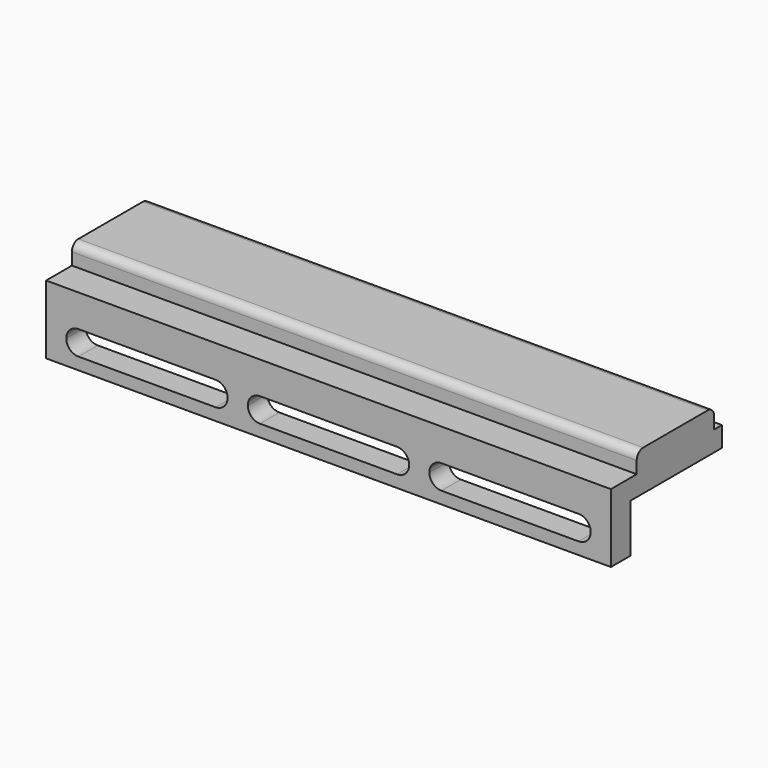
from build123d import *

# Parameters (mm, degrees)
F1_DEPTH = 70
F2_R     = 2
F4_DEPTH = 25


with BuildPart() as f1:
    # F0 (on Right) → F1 (new body, symmetric)
    with BuildSketch(Plane.YZ):
        Polygon((-20, 5), (-20, -12), (-14, -12), (-14, 0), (14.4, 0), (14.4, 5), (12, 5), (12, 10), (-12, 10), (-12, 5), align=None)
    extrude(amount=F1_DEPTH, both=True)

    # F2
    f2_edges = [f1.edges().sort_by_distance(p)[0] for p in [
        (0, -12, 10),
        (0, 12, 10),
    ]]
    fillet(f2_edges, radius=F2_R)

    # F3 (on face) → F4 (cut)
    with BuildSketch(Plane.XZ.offset(20)):
        with BuildLine():
            Line((-28, -3), (-62, -3))
            ThreePointArc((-62, -3), (-64.12132, -3.87868), (-65, -6))
            ThreePointArc((-65, -6), (-64.12132, -8.12132), (-62, -9))
            Line((-62, -9), (-28, -9))
            ThreePointArc((-28, -9), (-25.87868, -8.12132), (-25, -6))
            ThreePointArc((-25, -6), (-25.87868, -3.87868), (-28, -3))
        make_face()
        with BuildLine():
            Line((17, -3), (-17, -3))
            ThreePointArc((-17, -3), (-19.12132, -3.87868), (-20, -6))
            ThreePointArc((-20, -6), (-19.12132, -8.12132), (-17, -9))
            Line((-17, -9), (17, -9))
            ThreePointArc((17, -9), (19.12132, -8.12132), (20, -6))
            ThreePointArc((20, -6), (19.12132, -3.87868), (17, -3))
        make_face()
        with BuildLine():
            Line((62, -3), (28, -3))
            ThreePointArc((28, -3), (25.87868, -3.87868), (25, -6))
            ThreePointArc((25, -6), (25.87868, -8.12132), (28, -9))
            Line((28, -9), (62, -9))
            ThreePointArc((62, -9), (64.12132, -8.12132), (65, -6))
            ThreePointArc((65, -6), (64.12132, -3.87868), (62, -3))
        make_face()
    extrude(amount=-F4_DEPTH, mode=Mode.SUBTRACT)


solid = f1.part
